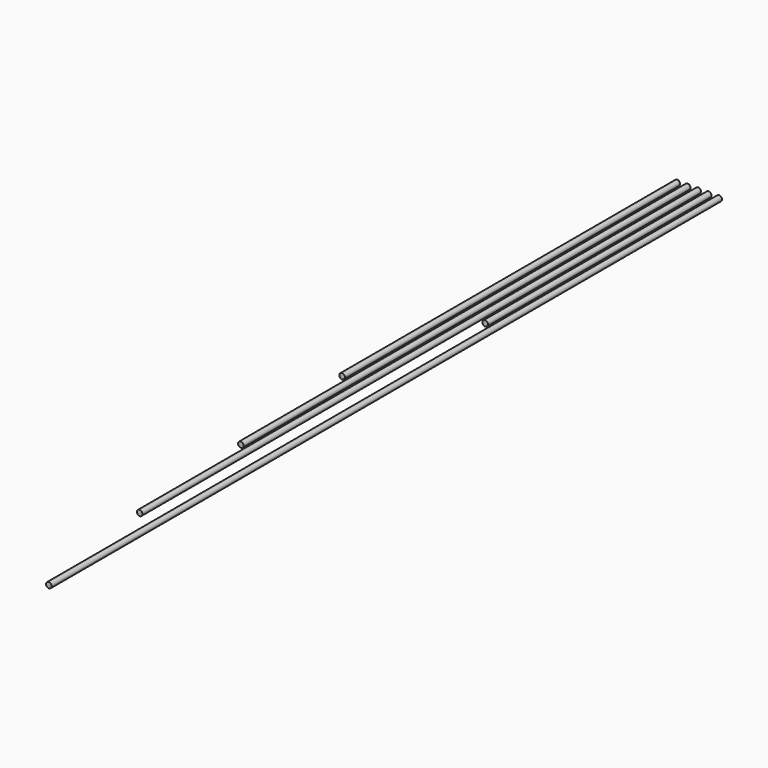
from build123d import *

# Parameters (mm, degrees)
F0_R     = 4
F1_DEPTH = 1000
F2_DEPTH = 800
F3_DEPTH = 600
F4_DEPTH = 400
F5_DEPTH = 1200


with BuildPart() as f1:
    # F0 (on Front) → F1 (new body)
    with BuildSketch(Plane.XZ):
        Circle(F0_R)
    extrude(amount=F1_DEPTH)


with BuildPart() as f2:
    # F0 (on Front) → F2 (new body)
    with BuildSketch(Plane.XZ):
        with Locations((-15, 0)):
            Circle(F0_R)
    extrude(amount=F2_DEPTH)


with BuildPart() as f3:
    # F0 (on Front) → F3 (new body)
    with BuildSketch(Plane.XZ):
        with Locations((-30, 0)):
            Circle(F0_R)
    extrude(amount=F3_DEPTH)


with BuildPart() as f4:
    # F0 (on Front) → F4 (new body)
    with BuildSketch(Plane.XZ):
        with Locations((15, 0)):
            Circle(F0_R)
    extrude(amount=F4_DEPTH)


with BuildPart() as f5:
    # F0 (on Front) → F5 (new body)
    with BuildSketch(Plane.XZ):
        with Locations((30, 0)):
            Circle(F0_R)
    extrude(amount=F5_DEPTH)


solid = Compound([f1.part, f2.part, f3.part, f4.part, f5.part])
